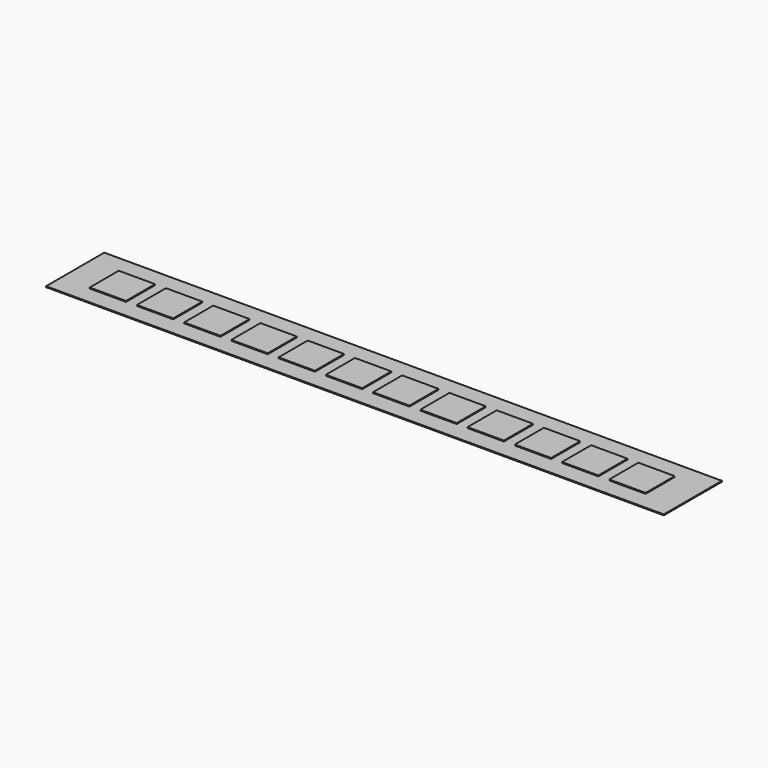
from build123d import *

# Parameters (mm, degrees)
F0_W     = 17000
F0_H     = 2000
F1_DEPTH = 25
F2_W     = 1000
F2_H     = 1000
F3_DEPTH = 25


with BuildPart() as f1:
    # F0 (on Top) → F1 (new body)
    with BuildSketch(Plane.XY):
        with Locations((-8500, 1000)):
            Rectangle(F0_W, F0_H)
    extrude(amount=F1_DEPTH)

    # F2 (on face) → F3 (join)
    with BuildSketch(Plane.XY.offset(25)):
        Polygon((-16200, 1500), (-16200, 1000), (-16200, 500), (-15200, 500), (-15200, 1000), (-15200, 1500), align=None)
        Polygon((-14900, 1500), (-14900, 1000), (-14900, 500), (-13900, 500), (-13900, 1500), align=None)
        with Locations((-13100, 1000)):
            Rectangle(F2_W, F2_H)
        with Locations((-11800, 1000)):
            Rectangle(F2_W, F2_H)
        with Locations((-10500, 1000)):
            Rectangle(F2_W, F2_H)
        with Locations((-9200, 1000)):
            Rectangle(F2_W, F2_H)
        with Locations((-7900, 1000)):
            Rectangle(F2_W, F2_H)
        with Locations((-6600, 1000)):
            Rectangle(F2_W, F2_H)
        with Locations((-5300, 1000)):
            Rectangle(F2_W, F2_H)
        with Locations((-4000, 1000)):
            Rectangle(F2_W, F2_H)
        with Locations((-2700, 1000)):
            Rectangle(F2_W, F2_H)
        with Locations((-1400, 1000)):
            Rectangle(F2_W, F2_H)
    extrude(amount=F3_DEPTH)


solid = f1.part
